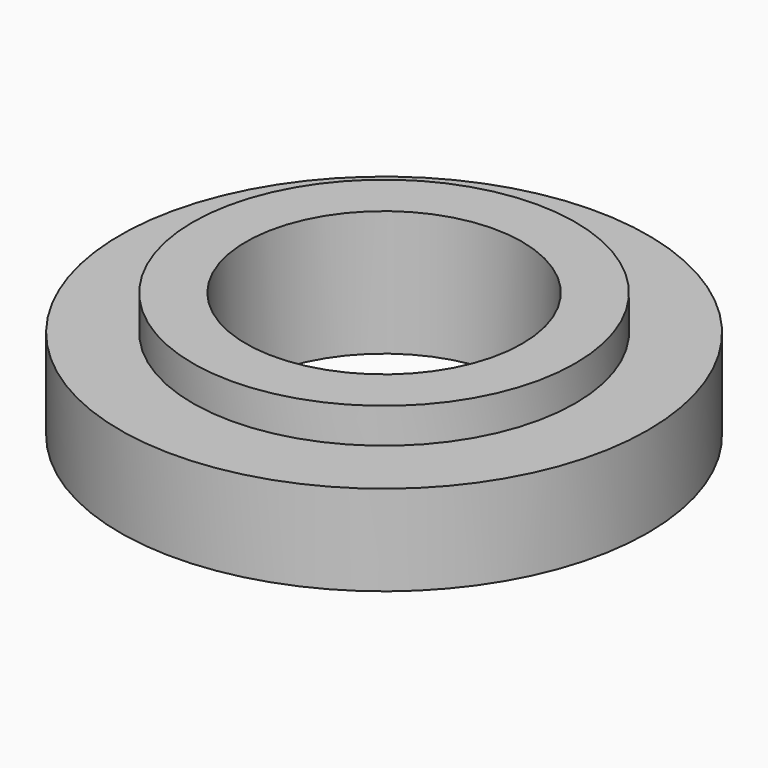
from build123d import *

# Parameters (mm, degrees)
SKETCH_R      = 13
SKETCH_R_2    = 6.8
PAD_DEPTH     = 4.45
SKETCH001_R   = 9.42
SKETCH001_R_2 = 6.8
PAD001_DEPTH  = 1.73


with BuildPart() as part:
    # Sketch → Pad (new body)
    with BuildSketch(Plane.XY):
        Circle(SKETCH_R)
        Circle(SKETCH_R_2, mode=Mode.SUBTRACT)
    extrude(amount=PAD_DEPTH)

    # Sketch001 (on Face4 of Pad) → Pad001 (join)
    with BuildSketch(Plane.XY.offset(4.45)):
        Circle(SKETCH001_R)
        Circle(SKETCH001_R_2, mode=Mode.SUBTRACT)
    extrude(amount=PAD001_DEPTH)


solid = part.part
